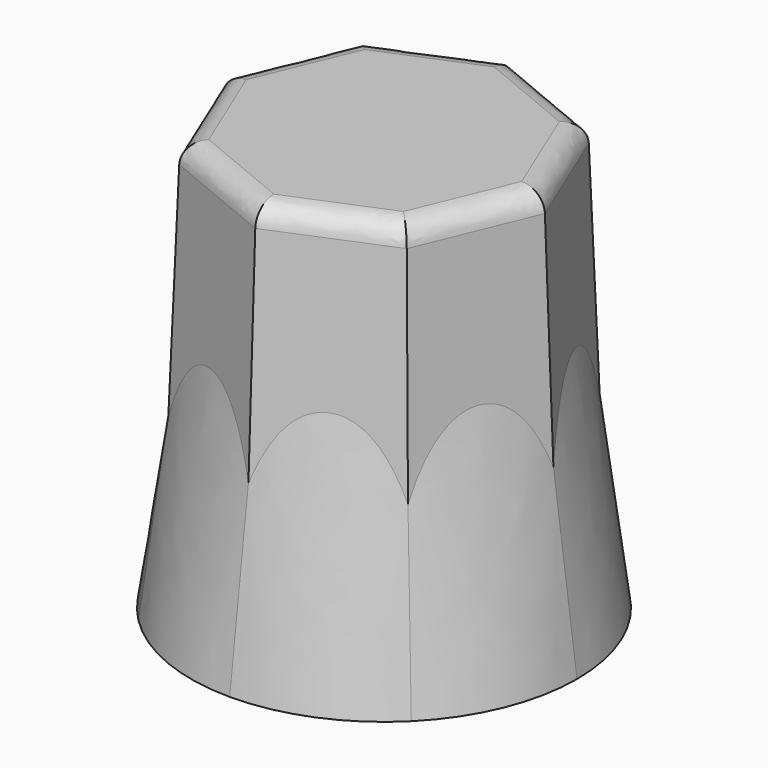
from build123d import *

# Parameters (mm, degrees)
F5_R      = 15
F7_R      = 13.25
F9_R      = 2.5
F10_R     = 22.5
F12_R     = 15
F13_DEPTH = 45


with BuildPart() as f4:
    # F1 (on Top) → F4 section 0
    with BuildSketch(Plane.XY):
        Polygon((0, 20.5654518056), (-14.5419704299, 14.5419704299), (-20.5654518056, 0), (-14.5419704299, -14.5419704299), (0, -20.5654518056), (14.5419704299, -14.5419704299), (20.5654518056, 0), (14.5419704299, 14.5419704299), align=None)
    # F3 (on offset) → F4 section 1
    with BuildSketch(Plane.XY.offset(49)):
        Polygon((0, 18.671265455), (-13.2025784166, 13.2025784166), (-18.671265455, 0), (-13.2025784166, -13.2025784166), (0, -18.671265455), (13.2025784166, -13.2025784166), (18.671265455, 0), (13.2025784166, 13.2025784166), align=None)
    loft()

    # F5 (on Top) → F8 section 0
    with BuildSketch(Plane.XY):
        Circle(F5_R)
    # F7 (on offset) → F8 section 1
    with BuildSketch(Plane.XY.offset(45)):
        Circle(F7_R)
    loft(mode=Mode.SUBTRACT)

    # F9
    f9_edges = [f4.edges().sort_by_distance(p)[0] for p in [
        (-15.936922, -6.601289, 49),
        (-6.601289, -15.936922, 49),
        (6.601289, -15.936922, 49),
        (15.936922, -6.601289, 49),
        (15.936922, 6.601289, 49),
        (6.601289, 15.936922, 49),
        (-6.601289, 15.936922, 49),
        (-15.936922, 6.601289, 49),
    ]]
    fillet(f9_edges, radius=F9_R)

    # F10 (on Top) → F11 section 0
    with BuildSketch(Plane.XY):
        Circle(F10_R)
    # F4_face (on face) → F11 section 1
    with BuildSketch(Plane.XY.offset(49)):
        with BuildLine():
            add(Edge.make_bspline(
                [(-16.0602019121, 0), (-13.7082397957, -5.6781388396), (-11.3562776793, -11.3562776793)],
                knots=[0.9992107587, 0.9992107587, 0.9992107587, 13.2911571431, 13.2911571431, 13.2911571431], degree=2))
            add(Edge.make_bspline(
                [(-11.3562776793, -11.3562776793), (-5.6781388396, -13.7082397957), (0, -16.0602019121)],
                knots=[0.9992107587, 0.9992107587, 0.9992107587, 13.2911571431, 13.2911571431, 13.2911571431], degree=2))
            add(Edge.make_bspline(
                [(0, -16.0602019121), (5.6781388396, -13.7082397957), (11.3562776793, -11.3562776793)],
                knots=[0.9992107587, 0.9992107587, 0.9992107587, 13.2911571431, 13.2911571431, 13.2911571431], degree=2))
            add(Edge.make_bspline(
                [(11.3562776793, -11.3562776793), (13.7082397957, -5.6781388396), (16.0602019121, 0)],
                knots=[0.9992107587, 0.9992107587, 0.9992107587, 13.2911571431, 13.2911571431, 13.2911571431], degree=2))
            add(Edge.make_bspline(
                [(16.0602019121, 0), (13.7082397957, 5.6781388396), (11.3562776793, 11.3562776793)],
                knots=[0.9992107587, 0.9992107587, 0.9992107587, 13.2911571431, 13.2911571431, 13.2911571431], degree=2))
            add(Edge.make_bspline(
                [(11.3562776793, 11.3562776793), (5.6781388396, 13.7082397957), (0, 16.0602019121)],
                knots=[0.9992107587, 0.9992107587, 0.9992107587, 13.2911571431, 13.2911571431, 13.2911571431], degree=2))
            add(Edge.make_bspline(
                [(0, 16.0602019121), (-5.6781388396, 13.7082397957), (-11.3562776793, 11.3562776793)],
                knots=[0.9992107587, 0.9992107587, 0.9992107587, 13.2911571431, 13.2911571431, 13.2911571431], degree=2))
            add(Edge.make_bspline(
                [(-11.3562776793, 11.3562776793), (-13.7082397957, 5.6781388396), (-16.0602019121, 0)],
                knots=[0.9992107587, 0.9992107587, 0.9992107587, 13.2911571431, 13.2911571431, 13.2911571431], degree=2))
        make_face()
    loft()

    # F12 (on face) → F13 (cut)
    with BuildSketch(Plane(origin=(0, 0, 0), x_dir=(1, 0, 0), z_dir=(0, 0, -1))):
        Circle(F12_R)
    extrude(amount=-F13_DEPTH, mode=Mode.SUBTRACT)


solid = f4.part
